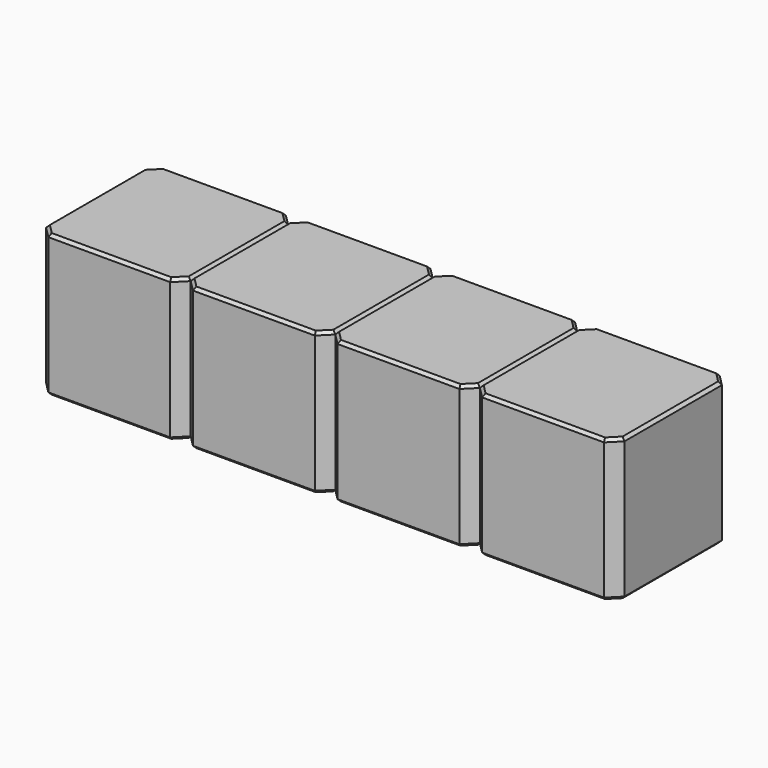
from build123d import *

# Parameters (mm, degrees)
SKETCH232_W      = 2.54
SKETCH232_H      = 2.54
PAD087_DEPTH     = 2.5
CHAMFER050_SIZE  = 0.2
CHAMFER049_SIZE  = 0.05
ARRAY019_X_COUNT = 4
ARRAY019_X_PITCH = 2.54


with BuildPart() as array019:
    # Sketch232 → Pad087 (new body)
    with BuildSketch(Plane.XY):
        Rectangle(SKETCH232_W, SKETCH232_H)
    extrude(amount=PAD087_DEPTH)

    # Chamfer050
    chamfer050_edges = [array019.edges().sort_by_distance(p)[0] for p in [
        (1.27, -1.27, 1.25),
        (-1.27, -1.27, 1.25),
        (1.27, 1.27, 1.25),
        (-1.27, 1.27, 1.25),
    ]]
    chamfer(chamfer050_edges, length=CHAMFER050_SIZE)

    # Chamfer049
    chamfer049_edges = [array019.edges().sort_by_distance(p)[0] for p in [
        (0, -1.27, 2.5),
        (-1.17, -1.17, 2.5),
        (1.17, -1.17, 2.5),
        (-1.27, 0, 2.5),
        (1.27, 0, 2.5),
        (-1.17, 1.17, 2.5),
        (1.17, 1.17, 2.5),
        (0, 1.27, 2.5),
        (0, -1.27, 0),
        (-1.17, -1.17, 0),
        (1.17, -1.17, 0),
        (-1.27, 0, 0),
        (1.27, 0, 0),
        (-1.17, 1.17, 0),
        (1.17, 1.17, 0),
        (0, 1.27, 0),
    ]]
    chamfer(chamfer049_edges, length=CHAMFER049_SIZE)


with BuildPart() as array019_copy1:
    # Array019 X: instance of Array019
    add(array019.part.moved(Location(Vector(1, 0, 0) * (1 * ARRAY019_X_PITCH))))


with BuildPart() as array019_copy2:
    # Array019 X: instance of Array019
    add(array019.part.moved(Location(Vector(1, 0, 0) * (2 * ARRAY019_X_PITCH))))


with BuildPart() as array019_copy3:
    # Array019 X: instance of Array019
    add(array019.part.moved(Location(Vector(1, 0, 0) * (3 * ARRAY019_X_PITCH))))


solid = Compound([array019.part, array019_copy1.part, array019_copy2.part, array019_copy3.part])
